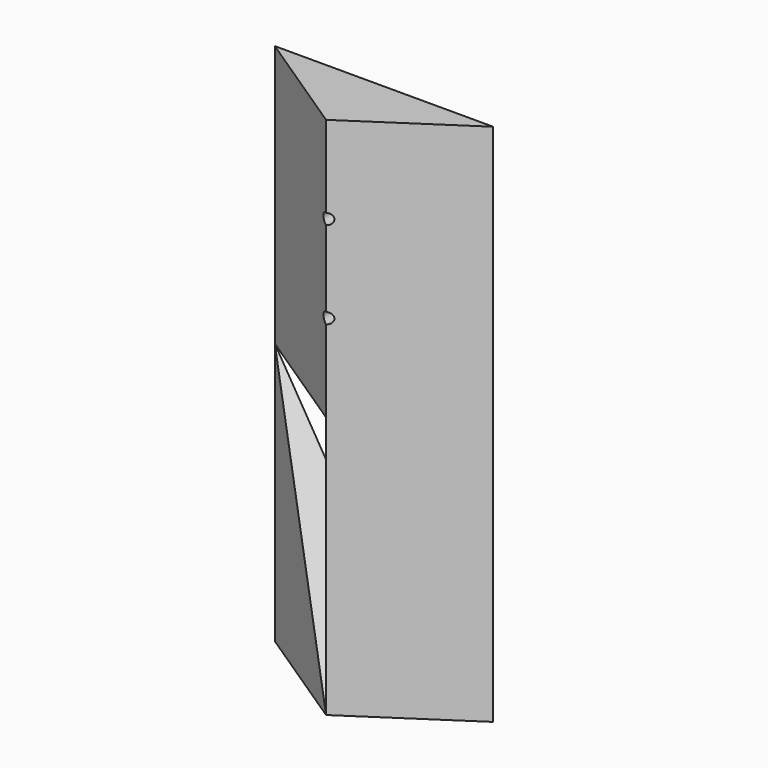
from build123d import *

# Parameters (mm, degrees)
F1_DEPTH       = 304.8
F3_DEPTH       = 50.8
F5_D           = 6.35
F5_CSINK_D     = 12.7
F5_CSINK_ANGLE = 90


with BuildPart() as f1:
    # F0 (on Top) → F1 (new body)
    with BuildSketch(Plane.XY):
        Polygon((63.5, 0), (-63.5, 0), (0, -42.1211348375), align=None)
    extrude(amount=F1_DEPTH)

    # F2 (on face) → F3 (cut)
    with BuildSketch(Plane(origin=(-19.4027777778, -29.2507880816, 0), x_dir=(0.8333333333, -0.5527707984, 0), z_dir=(-0.5527707984, -0.8333333333, 0))):
        Polygon((-52.9166666667, 152.4), (23.2833333333, 0), (23.2833333333, 152.4), align=None)
    extrude(amount=-F3_DEPTH, mode=Mode.SUBTRACT)

    # F5 (through all)
    with Locations(Plane(origin=(0, 0, 0), x_dir=(-1, 0, 0), z_dir=(0, 1, 0))):
        with Locations((0, 203.2), (0, 254)):
            CounterSinkHole(F5_D / 2, F5_CSINK_D / 2, counter_sink_angle=F5_CSINK_ANGLE)


solid = f1.part
